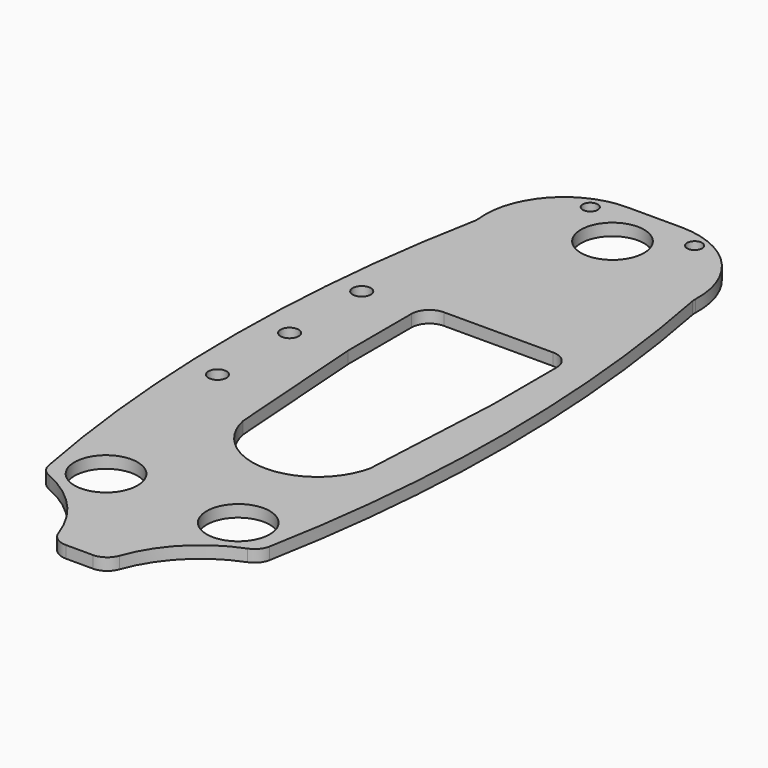
from build123d import *

# Parameters (mm, degrees)
F0_R     = 5.25
F0_R_2   = 1.5
F0_W     = 5
F0_H     = 5
F0_R_3   = 1.25
F0_R_4   = 1.75
F1_DEPTH = 2
F2_R     = 3


with BuildPart() as f1:
    # F0 (on Top) → F1 (new body)
    with BuildSketch(Plane.XY):
        with BuildLine():
            ThreePointArc((3.990019, -68.312214), (8.980561, -59.20208), (17.867249, -53.823715))
            ThreePointArc((17.867249, -53.823715), (22.267092, -8.681573), (17.904209, 36.464155))
            ThreePointArc((17.904209, 36.464155), (14.117679, 47.010788), (3.83484, 51.464155))
            Line((3.83484, 51.464155), (-5.16516, 51.464155))
            ThreePointArc((-5.16516, 51.464155), (-15.089877, 46.932243), (-18.16516, 36.464155))
            ThreePointArc((-18.16516, 36.464155), (-22.575161, -8.679484), (-18.171223, -53.823715))
            ThreePointArc((-18.171223, -53.823715), (-9.698463, -59.344979), (-5.009978, -68.305454))
            Line((-5.009978, -68.305454), (3.990019, -68.312214))
        make_face()
        with Locations((-11.171223, -49.410199)):
            Circle(F0_R, mode=Mode.SUBTRACT)
        with Locations((-17.307693, -18.557694)):
            Circle(F0_R_2, mode=Mode.SUBTRACT)
        with Locations((10.828777, -49.410199)):
            Circle(F0_R, mode=Mode.SUBTRACT)
        with BuildLine():
            Line((15.87237, -2.684599), (14.673084, -26.670335))
            ThreePointArc((14.673084, -26.670335), (4.050829, -35.288664), (-6.571426, -26.670335))
            Line((-6.571426, -26.670335), (-8.284692, -2.684599))
            Line((-8.284692, -2.684599), (-8.315476, 13.506981))
            Line((-8.315476, 13.506981), (15.840123, 13.552907))
            Line((15.840123, 13.552907), (15.87237, -2.684599))
        make_face(mode=Mode.SUBTRACT)
        with Locations((-17.307693, -3.557694)):
            Circle(F0_R_2, mode=Mode.SUBTRACT)
        with Locations((-17.307693, 11.442306)):
            Circle(F0_R_2, mode=Mode.SUBTRACT)
        with Locations((-12.265522, 28.964155)):
            Rectangle(F0_W, F0_H, mode=Mode.SUBTRACT)
        with Locations((-8.921223, 48.498269)):
            Circle(F0_R_3, mode=Mode.SUBTRACT)
        with Locations((-0.66516, 42.791233)):
            Circle(F0_R, mode=Mode.SUBTRACT)
        Polygon((8.443961, 26.498776), (8.424948, 31.49874), (13.424912, 31.517753), (13.443924, 26.517789), align=None, mode=Mode.SUBTRACT)
        with Locations((8.424948, 48.498269)):
            Circle(F0_R_3, mode=Mode.SUBTRACT)
        with Locations((-12.265522, 28.964155)):
            Rectangle(F0_W, F0_H)
        with Locations((-12.265522, 28.964155)):
            Circle(F0_R_4, mode=Mode.SUBTRACT)
        with Locations((-12.265522, 28.964155)):
            Circle(F0_R_4)
        Polygon((13.424912, 31.517753), (8.424948, 31.49874), (8.443961, 26.498776), (13.443924, 26.517789), align=None)
        with Locations((10.934436, 29.008265)):
            Circle(F0_R_4, mode=Mode.SUBTRACT)
        with Locations((10.934436, 29.008265)):
            Circle(F0_R_4)
    extrude(amount=F1_DEPTH)

    # F2
    f2_edges = [f1.edges().sort_by_distance(p)[0] for p in [
        (3.990019, -68.312214, 1),
        (-5.009978, -68.305454, 1),
        (-8.315476, 13.506981, 1),
        (15.840123, 13.552907, 1),
        (17.904209, 36.464155, 1),
        (-18.16516, 36.464155, 1),
        (17.867249, -53.823715, 1),
        (-18.171223, -53.823715, 1),
    ]]
    fillet(f2_edges, radius=F2_R)


solid = f1.part
